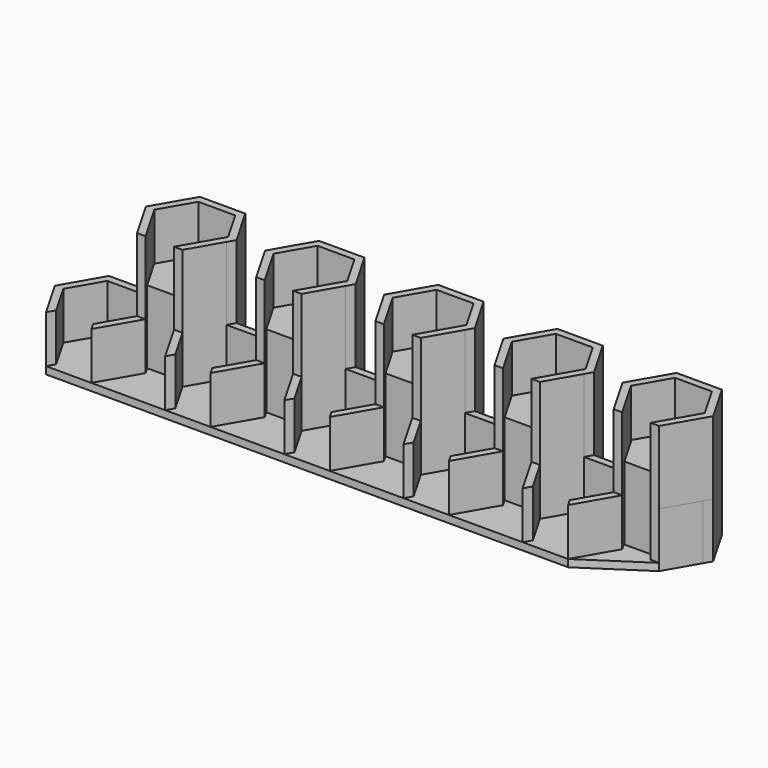
from build123d import *

# Parameters (mm, degrees)
F1_DEPTH = 15
F3_DEPTH = 2
F5_DEPTH = 20
F7_DEPTH = 20


with BuildPart() as f1:
    # F0 (on Top) → F1 (new body)
    with BuildSketch(Plane.XY):
        Polygon((-43.4116994914, -2), (-33.3080697806, -2), (-28.2562549252, -10.75), (-33.3080697806, -19.5), (-32.1533692422, -21.5), (-25.9468538484, -10.75), (-27.1015543868, -8.75), (-32.1533692422, 0), (-27.1015543868, 8.75), (-22.0497395314, 8.75), (-16.997924676, 8.75), (-11.9461098206, 0), (-14.4720172483, -4.375), (-16.997924676, -8.75), (-18.1526252144, -10.75), (-15.8432241376, -10.75), (-10.7914092822, -2), (-9.6367087438, 0), (-15.8432241376, 10.75), (-22.0497395314, 10.75), (-28.2562549252, 10.75), (-34.462770319, 0), (-42.2567087438, 0), (-48.4632241376, 10.75), (-54.6697395314, 10.75), (-60.8762549252, 10.75), (-67.082770319, 0), (-74.8767087438, 0), (-81.0832241376, 10.75), (-87.2897395314, 10.75), (-93.4962549252, 10.75), (-99.702770319, 0), (-107.4967087438, 0), (-113.7032241376, 10.75), (-119.9097395314, 10.75), (-126.1162549252, 10.75), (-132.322770319, 0), (-140.1167087438, 0), (-146.3232241376, 10.75), (-152.5297395314, 10.75), (-158.7362549252, 10.75), (-164.942770319, 0), (-175.0464000298, 0), (-181.2529154236, -10.75), (-175.0464000298, -21.5), (-173.8916994914, -19.5), (-178.9435143468, -10.75), (-173.8916994914, -2), (-163.7880697806, -2), (-158.7362549252, -10.75), (-163.7880697806, -19.5), (-162.6333692422, -21.5), (-156.4268538484, -10.75), (-162.6333692422, 0), (-157.5815543868, 8.75), (-152.5297395314, 8.75), (-147.477924676, 8.75), (-142.4261098206, 0), (-148.6329154236, -10.75), (-142.4264000298, -21.5), (-141.2716994914, -19.5), (-146.3235143468, -10.75), (-141.2716994914, -2), (-131.1680697806, -2), (-126.1162549252, -10.75), (-131.1680697806, -19.5), (-130.0133692422, -21.5), (-123.8068538484, -10.75), (-130.0133692422, 0), (-124.9615543868, 8.75), (-119.9097395314, 8.75), (-114.857924676, 8.75), (-109.8061098206, 0), (-116.0129154236, -10.75), (-109.8064000298, -21.5), (-108.6516994914, -19.5), (-113.7035143468, -10.75), (-108.6516994914, -2), (-98.5480697806, -2), (-93.4962549252, -10.75), (-98.5480697806, -19.5), (-97.3933692422, -21.5), (-91.1868538484, -10.75), (-97.3933692422, 0), (-92.3415543868, 8.75), (-87.2897395314, 8.75), (-82.237924676, 8.75), (-77.1861098206, 0), (-83.3929154236, -10.75), (-77.1864000298, -21.5), (-76.0316994914, -19.5), (-81.0835143468, -10.75), (-76.0316994914, -2), (-65.9280697806, -2), (-60.8762549252, -10.75), (-65.9280697806, -19.5), (-64.7733692422, -21.5), (-58.5668538484, -10.75), (-64.7733692422, 0), (-59.7215543868, 8.75), (-54.6697395314, 8.75), (-49.617924676, 8.75), (-44.5661098206, 0), (-50.7729154236, -10.75), (-44.5664000298, -21.5), (-43.4116994914, -19.5), (-48.4635143468, -10.75), align=None)
    extrude(amount=F1_DEPTH)

    # F2 (on face) → F3 (join)
    with BuildSketch(Plane(origin=(0, 0, 0), x_dir=(1, 0, 0), z_dir=(0, 0, -1))):
        Polygon((-32.1533692422, 21.5), (-175.0464000298, 21.5), (-181.2529154236, 10.75), (-175.0464000298, 0), (-158.7362549252, -10.75), (-15.8432241376, -10.75), (-9.6367087438, 0), (-15.8432241376, 10.75), align=None)
    extrude(amount=-F3_DEPTH)

    # F4 (on face) → F5 (join)
    with BuildSketch(Plane.XY.offset(15)):
        Polygon((-11.9461098206, 0), (-18.1526252144, -10.75), (-15.8432241376, -10.75), (-9.6367087438, 0), (-15.8432241376, 10.75), (-28.2562549252, 10.75), (-34.462770319, 0), (-33.3080697806, -2), (-28.2562549252, -10.75), (-25.9468538484, -10.75), (-32.1533692422, 0), (-27.1015543868, 8.75), (-16.997924676, 8.75), align=None)
        Polygon((-43.4116994914, -2), (-42.2567087438, 0), (-48.4632241376, 10.75), (-60.8762549252, 10.75), (-67.082770319, 0), (-65.9280697806, -2), (-60.8762549252, -10.75), (-58.5668538484, -10.75), (-64.7733692422, 0), (-59.7215543868, 8.75), (-49.617924676, 8.75), (-44.5661098206, 0), (-50.7729154236, -10.75), (-48.4635143468, -10.75), align=None)
        Polygon((-76.0316994914, -2), (-74.8767087438, 0), (-81.0832241376, 10.75), (-93.4962549252, 10.75), (-99.702770319, 0), (-98.5480697806, -2), (-93.4962549252, -10.75), (-91.1868538484, -10.75), (-97.3933692422, 0), (-92.3415543868, 8.75), (-82.237924676, 8.75), (-77.1861098206, 0), (-83.3929154236, -10.75), (-81.0835143468, -10.75), align=None)
        Polygon((-108.6516994914, -2), (-107.4967087438, 0), (-113.7032241376, 10.75), (-126.1162549252, 10.75), (-132.322770319, 0), (-131.1680697806, -2), (-126.1162549252, -10.75), (-123.8068538484, -10.75), (-130.0133692422, 0), (-124.9615543868, 8.75), (-114.857924676, 8.75), (-109.8061098206, 0), (-116.0129154236, -10.75), (-113.7035143468, -10.75), align=None)
        Polygon((-141.2716994914, -2), (-140.1167087438, 0), (-146.3232241376, 10.75), (-158.7362549252, 10.75), (-164.942770319, 0), (-158.7362549252, -10.75), (-156.4268538484, -10.75), (-162.6333692422, 0), (-157.5815543868, 8.75), (-147.477924676, 8.75), (-142.4261098206, 0), (-148.6329154236, -10.75), (-146.3235143468, -10.75), align=None)
    extrude(amount=F5_DEPTH)

    # F6 (on face) → F7 (join)
    with BuildSketch(Plane.XY.offset(2)):
        Polygon((-147.477924676, 8.75), (-157.5815543868, 8.75), (-162.6333692422, 0), (-157.5815543868, -8.75), (-147.477924676, -8.75), (-142.4261098206, 0), align=None)
        Polygon((-114.857924676, 8.75), (-124.9615543868, 8.75), (-130.0133692422, 0), (-124.9615543868, -8.75), (-114.857924676, -8.75), (-109.8061098206, 0), align=None)
        Polygon((-82.237924676, 8.75), (-92.3415543868, 8.75), (-97.3933692422, 0), (-92.3415543868, -8.75), (-82.237924676, -8.75), (-77.1861098206, 0), align=None)
        Polygon((-44.6827581202, 0), (-49.7345729756, 8.75), (-59.8382026864, 8.75), (-64.8900175418, 0), (-59.8382026864, -8.75), (-49.7345729756, -8.75), align=None)
        Polygon((-16.8277836429, 8.75), (-26.9314133538, 8.75), (-31.9832282092, 0), (-26.9314133538, -8.75), (-16.8277836429, -8.75), (-11.7759687875, 0), align=None)
    extrude(amount=F7_DEPTH)


solid = f1.part
